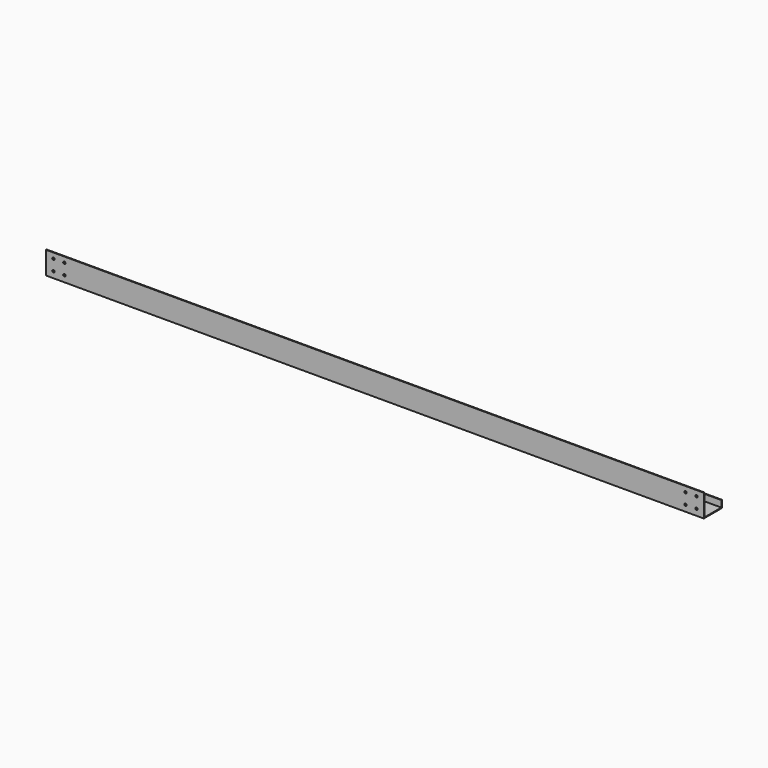
from build123d import *

# Parameters (mm, degrees)
F1_DEPTH = 1800
F2_R     = 3.25
F3_DEPTH = 25


with BuildPart() as f1:
    # F0 (on Right) → F1 (new body)
    with BuildSketch(Plane.YZ):
        Polygon((0, 62), (0, 0), (62, 0), (62, 20), (60, 20), (60, 2), (2, 2), (2, 62), align=None)
    extrude(amount=-F1_DEPTH)

    # F2 (on face) → F3 (cut)
    with BuildSketch(Plane(origin=(0, 2, 0), x_dir=(-1, 0, 0), z_dir=(0, 1, 0))):
        with Locations((20, 47)):
            Circle(F2_R)
        with Locations((50, 47)):
            Circle(F2_R)
        with Locations((20, 17)):
            Circle(F2_R)
        with Locations((50, 17)):
            Circle(F2_R)
        with Locations((1750, 47)):
            Circle(F2_R)
        with Locations((1780, 47)):
            Circle(F2_R)
        with Locations((1780, 17)):
            Circle(F2_R)
        with Locations((1750, 17)):
            Circle(F2_R)
    extrude(amount=-F3_DEPTH, mode=Mode.SUBTRACT)


solid = f1.part
